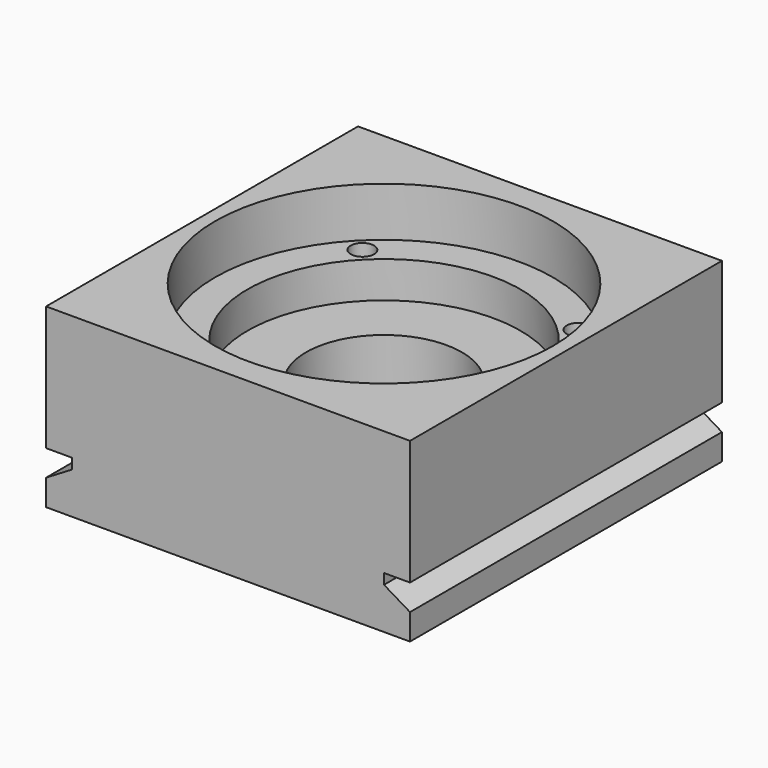
from build123d import *

# Parameters (mm, degrees)
F1_DEPTH = 75
F5_R     = 7
F6_DEPTH = 12
F4_R     = 4.5
F7_DEPTH = 37
F9_DEPTH = 150


with BuildPart() as f1:
    # F0 (on Front) → F1 (new body, symmetric)
    with BuildSketch(Plane.XZ):
        Polygon((-70, 0), (0, 0), (70, 0), (70, 68), (-70, 68), align=None)
    extrude(amount=F1_DEPTH, both=True)

    # F2 (on Front) → F3 (revolve, cut)
    with BuildSketch(Plane.XZ):
        Polygon((0, 68), (0, 0), (30, 0), (30, 35), (52.5, 35), (52.5, 49), (65, 49), (65, 68), align=None)
    revolve(axis=Axis((0, 0, 34), (0, 0, 1)), mode=Mode.SUBTRACT)

    # F5 (on face) → F6 (cut)
    with BuildSketch(Plane(origin=(0, 0, 0), x_dir=(1, 0, 0), z_dir=(0, 0, -1))):
        with Locations((41.577879, 41.577879)):
            Circle(F5_R)
        with Locations((41.577879, -41.577879)):
            Circle(F5_R)
        with Locations((-41.577879, -41.577879)):
            Circle(F5_R)
        with Locations((-41.577879, 41.577879)):
            Circle(F5_R)
    extrude(amount=-F6_DEPTH, mode=Mode.SUBTRACT)

    # F4 (on face) → F7 (cut, symmetric)
    with BuildSketch(Plane.XY.offset(35)):
        with Locations((41.577879, 41.577879)):
            Circle(F4_R)
        with Locations((41.577879, -41.577879)):
            Circle(F4_R)
        with Locations((-41.577879, -41.577879)):
            Circle(F4_R)
        with Locations((-41.577879, 41.577879)):
            Circle(F4_R)
    extrude(amount=F7_DEPTH, both=True, mode=Mode.SUBTRACT)

    # F8 (on face) → F9 (cut)
    with BuildSketch(Plane.XZ.offset(75)):
        Polygon((60, 16), (70, 10), (70, 20), (60, 20), align=None)
        Polygon((-60, 16), (-60, 20), (-70, 20), (-70, 10), align=None)
    extrude(amount=-F9_DEPTH, mode=Mode.SUBTRACT)


solid = f1.part
